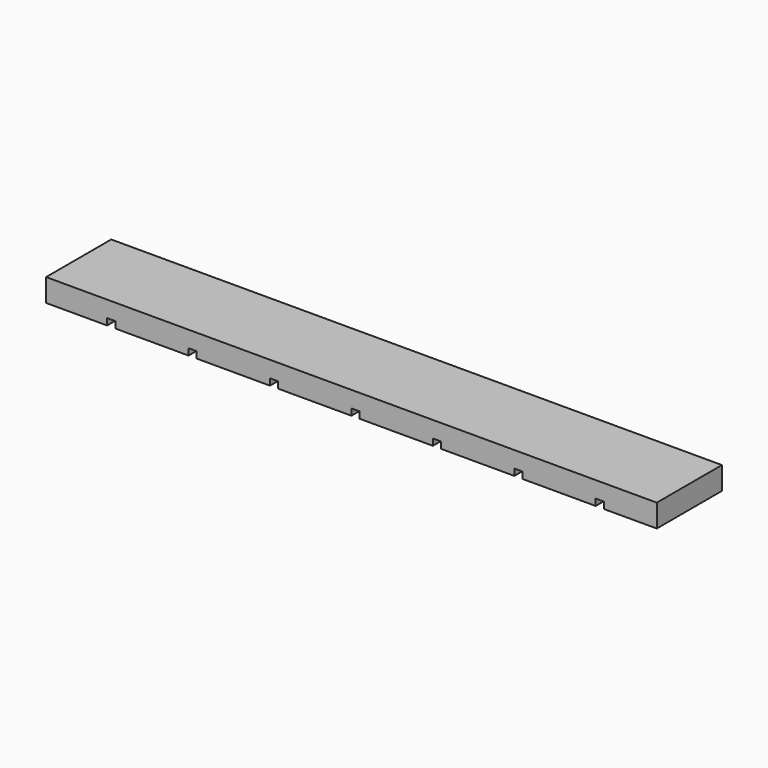
from build123d import *

# Parameters (mm, degrees)
F0_W     = 9
F0_H     = 10
F0_W_2   = 1
F0_W_3   = 6.5
F0_W_4   = 7.5
F1_DEPTH = 2.8
F2_DEPTH = 0.8


with BuildPart() as f1:
    # F0 (on Top) → F1 (new body)
    with BuildSketch(Plane.XY):
        with Locations((-24.5, 0)):
            Rectangle(F0_W, F0_H)
        with Locations((-29.5, 0)):
            Rectangle(F0_W_2, F0_H)
        with Locations((34.25, 0)):
            Rectangle(F0_W_3, F0_H)
        with Locations((-33.75, 0)):
            Rectangle(F0_W_4, F0_H)
        with Locations((30.5, 0)):
            Rectangle(F0_W_2, F0_H)
        with Locations((25.5, 0)):
            Rectangle(F0_W, F0_H)
        with Locations((20.5, 0)):
            Rectangle(F0_W_2, F0_H)
        with Locations((15.5, 0)):
            Rectangle(F0_W, F0_H)
        with Locations((10.5, 0)):
            Rectangle(F0_W_2, F0_H)
        with Locations((5.5, 0)):
            Rectangle(F0_W, F0_H)
        with Locations((0.5, 0)):
            Rectangle(F0_W_2, F0_H)
        with Locations((-4.5, 0)):
            Rectangle(F0_W, F0_H)
        with Locations((-9.5, 0)):
            Rectangle(F0_W_2, F0_H)
        with Locations((-14.5, 0)):
            Rectangle(F0_W, F0_H)
        with Locations((-19.5, 0)):
            Rectangle(F0_W_2, F0_H)
    extrude(amount=F1_DEPTH)

    # F0 (on Top) → F2 (cut)
    with BuildSketch(Plane.XY):
        with Locations((-29.5, 0)):
            Rectangle(F0_W_2, F0_H)
        with Locations((-19.5, 0)):
            Rectangle(F0_W_2, F0_H)
        with Locations((-9.5, 0)):
            Rectangle(F0_W_2, F0_H)
        with Locations((0.5, 0)):
            Rectangle(F0_W_2, F0_H)
        with Locations((10.5, 0)):
            Rectangle(F0_W_2, F0_H)
        with Locations((20.5, 0)):
            Rectangle(F0_W_2, F0_H)
        with Locations((30.5, 0)):
            Rectangle(F0_W_2, F0_H)
    extrude(amount=F2_DEPTH, mode=Mode.SUBTRACT)


solid = f1.part
